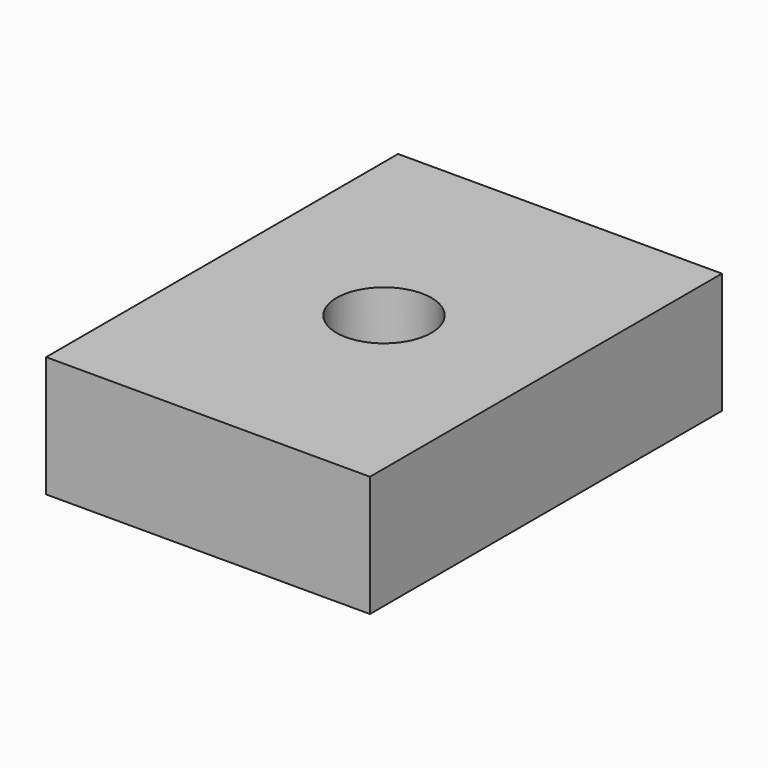
from build123d import *

# Parameters (mm, degrees)
F0_W       = 85.0676417184
F0_H       = 115.57
F1_DEPTH   = 6.35
F2_R       = 12.4631910905
F3_DEPTH   = 6.351
F1_FACE1_W = 85.0676417184
F1_FACE1_H = 115.57
F1_FACE1_R = 12.4631910905
F4_W       = 85.0676417184
F4_H       = 115.57
F4_R       = 12.4631910905
F4_R_2     = 12.0047888383
F5_DEPTH   = 25.4


with BuildPart() as f1:
    # F0 (on Top) → F1 (new body)
    with BuildSketch(Plane.XY):
        Rectangle(F0_W, F0_H)
    extrude(amount=F1_DEPTH)

    # F2 (on Top) → F3 (cut, through all)
    with BuildSketch(Plane.XY):
        Circle(F2_R)
    extrude(amount=F3_DEPTH, mode=Mode.SUBTRACT)

    # F1_face1 (on face) + F4 (on face) → F5 (join)
    with BuildSketch(Plane(origin=(0, 0, 0), x_dir=(1, 0, 0), z_dir=(0, 0, -1))):
        Rectangle(F1_FACE1_W, F1_FACE1_H)
        Circle(F1_FACE1_R, mode=Mode.SUBTRACT)
    with BuildSketch(Plane.XY.offset(6.35)):
        Rectangle(F4_W, F4_H)
        Circle(F4_R, mode=Mode.SUBTRACT)
        with Locations((30.233990401, 0)):
            Circle(F4_R_2, mode=Mode.SUBTRACT)
    extrude(amount=F5_DEPTH, dir=(0, 0, -1))


solid = f1.part
